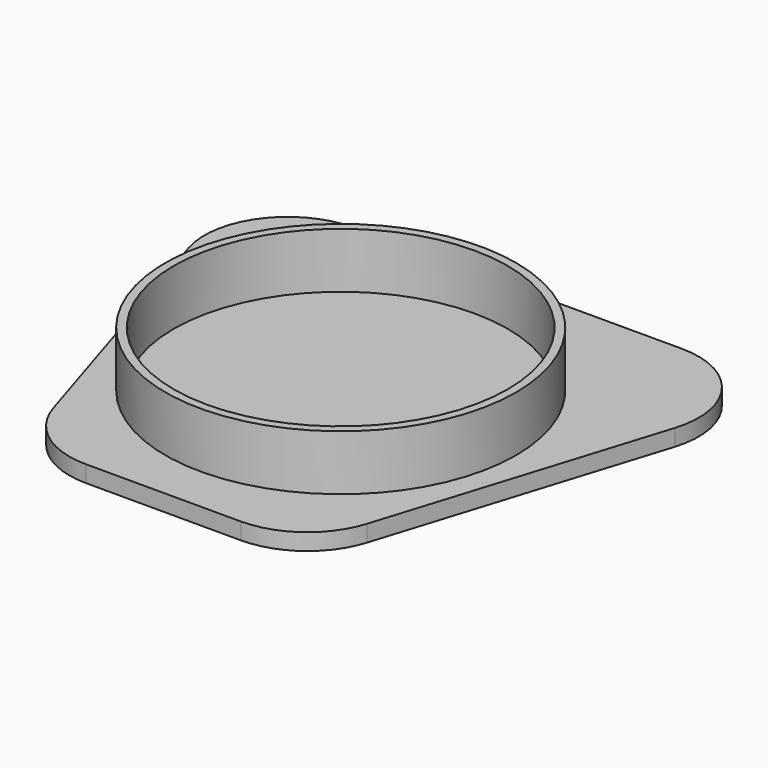
from build123d import *

# Parameters (mm, degrees)
PAD_DEPTH     = 3
SKETCH001_R   = 31.65
SKETCH001_R_2 = 30.15
PAD001_DEPTH  = 10


with BuildPart() as part:
    # Sketch → Pad (new body)
    with BuildSketch(Plane.XY):
        with BuildLine():
            Line((29.597136, 40), (-29.597136, 40))
            ThreePointArc((-29.597136, 40), (-41.682497, 33.885047), (-43.914336, 20.525875))
            Line((-43.914336, 20.525875), (-28.289336, -29.474125))
            ThreePointArc((-28.289336, -29.474125), (-22.857183, -37.08536), (-13.972136, -40))
            Line((-13.972136, -40), (13.972136, -40))
            ThreePointArc((13.972136, -40), (22.857183, -37.08536), (28.289336, -29.474125))
            Line((28.289336, -29.474125), (43.914336, 20.525875))
            ThreePointArc((43.914336, 20.525875), (41.682497, 33.885047), (29.597136, 40))
        make_face()
    extrude(amount=PAD_DEPTH)

    # Sketch001 (on Face10 of Pad) → Pad001 (join)
    with BuildSketch(Plane.XY.offset(3)):
        Circle(SKETCH001_R)
        Circle(SKETCH001_R_2, mode=Mode.SUBTRACT)
    extrude(amount=PAD001_DEPTH)


solid = part.part
